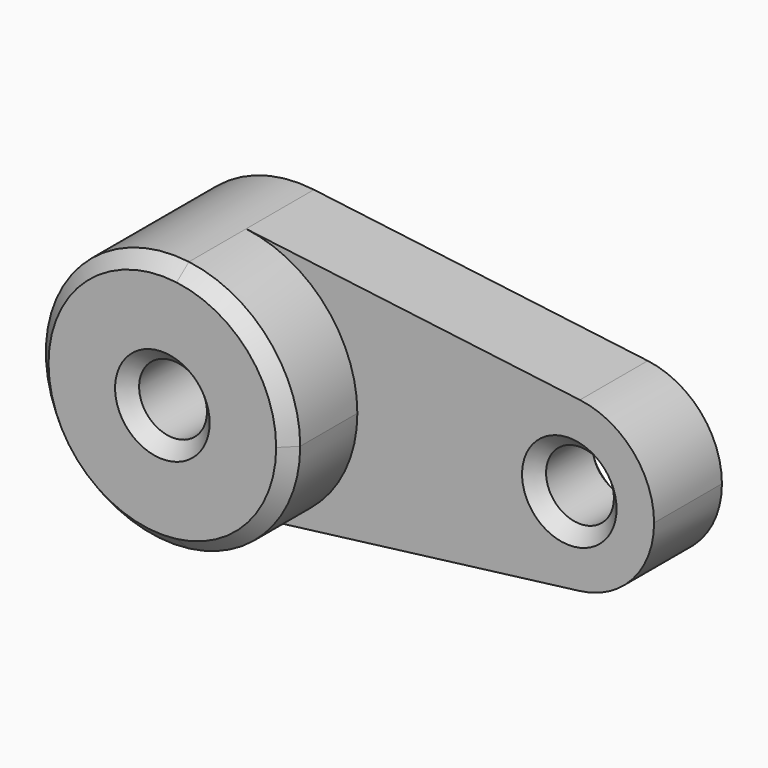
from build123d import *

# Parameters (mm, degrees)
F0_R     = 5.08
F1_DEPTH = 12.7
F2_DEPTH = 25.4
F3_SIZE  = 2


with BuildPart() as f1:
    # F0 (on Front) → F1 (new body)
    with BuildSketch(Plane.XZ):
        with BuildLine():
            ThreePointArc((2.38125, -18.900586), (14.2875, -12.600391), (19.05, 0))
            ThreePointArc((19.05, 0), (14.2875, 12.600391), (2.38125, 18.900586))
            ThreePointArc((2.38125, 18.900586), (-19.05, 0), (2.38125, -18.900586))
        make_face()
        Circle(F0_R, mode=Mode.SUBTRACT)
        with BuildLine():
            ThreePointArc((2.38125, 18.900586), (14.2875, 12.600391), (19.05, 0))
            ThreePointArc((19.05, 0), (14.2875, -12.600391), (2.38125, -18.900586))
            Line((2.38125, -18.900586), (52.3875, -12.600391))
            ThreePointArc((52.3875, -12.600391), (38.1, 0), (52.3875, 12.600391))
            Line((52.3875, 12.600391), (2.38125, 18.900586))
        make_face()
        with BuildLine():
            ThreePointArc((63.5, 0), (60.325, 8.40026), (52.3875, 12.600391))
            ThreePointArc((52.3875, 12.600391), (38.1, 0), (52.3875, -12.600391))
            ThreePointArc((52.3875, -12.600391), (60.325, -8.40026), (63.5, 0))
        make_face()
        with Locations((50.8, 0)):
            Circle(F0_R, mode=Mode.SUBTRACT)
    extrude(amount=F1_DEPTH)

    # F0 (on Front) → F2 (join)
    with BuildSketch(Plane.XZ):
        with BuildLine():
            ThreePointArc((2.38125, -18.900586), (14.2875, -12.600391), (19.05, 0))
            ThreePointArc((19.05, 0), (14.2875, 12.600391), (2.38125, 18.900586))
            ThreePointArc((2.38125, 18.900586), (-19.05, 0), (2.38125, -18.900586))
        make_face()
        Circle(F0_R, mode=Mode.SUBTRACT)
    extrude(amount=F2_DEPTH)

    # F3
    f3_edges = [f1.edges().sort_by_distance(p)[0] for p in [
        (-5.08, -25.4, 0),
        (-2.38125, -25.4, 18.900586),
        (45.72, -12.7, 0),
        (-5.08, 0, 0),
        (45.72, 0, 0),
    ]]
    chamfer(f3_edges, length=F3_SIZE)


solid = f1.part
